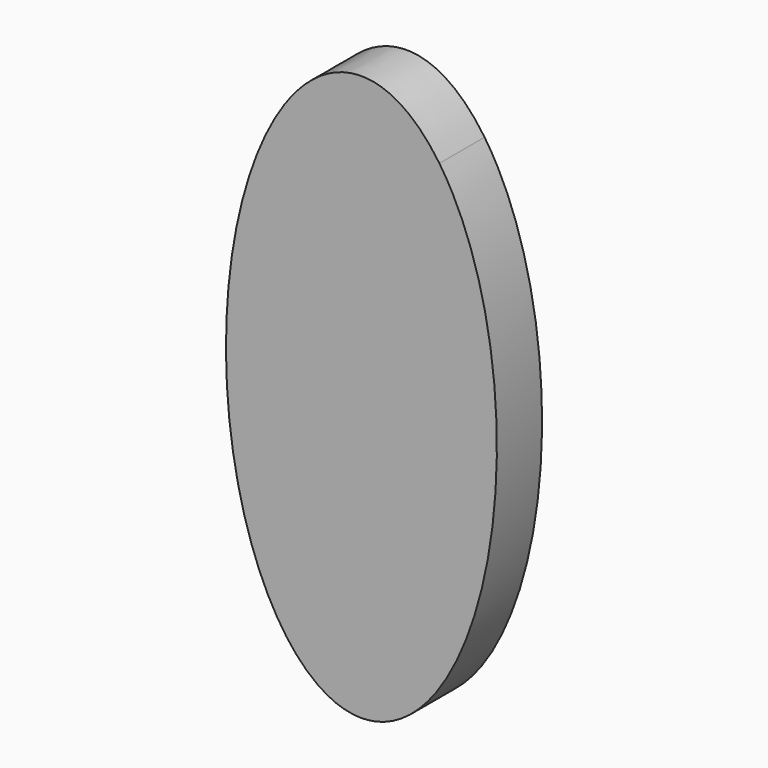
from build123d import *

# Parameters (mm, degrees)
F1_DEPTH = 6.35


with BuildPart() as f1:
    # F0 (on Front) → F1 (new body)
    with BuildSketch(Plane.XZ):
        with BuildLine():
            add(Edge.make_bspline(
                [(-8.682643097, 26.0743982187), (-48.3611295916, -31.4446766819), (-0.0460673293, -31.7498545102), (48.268994933, -32.0550323386), (8.7581483517, 25.9642349982)],
                knots=[0.6072139207, 0.6072139207, 0.6072139207, 3.1385653252, 3.1385653252, 5.6699167296, 5.6699167296, 5.6699167296], degree=2, weights=[1, 0.3004082304, 1, 0.3004082304, 1]))
            Line((8.7581483517, 25.9642349982), (-8.682643097, 25.9642349982))
            Line((-8.682643097, 25.9642349982), (-8.682643097, 26.0743982187))
        make_face()
        with BuildLine():
            Line((-8.682643097, 25.9642349982), (8.7581483517, 25.9642349982))
            add(Edge.make_bspline(
                [(8.7581483517, 25.9642349982), (4.8180697565, 31.75), (0, 31.75)],
                knots=[5.6699167296, 5.6699167296, 5.6699167296, 6.2831853072, 6.2831853072, 6.2831853072], degree=2, weights=[1, 0.9533549132, 1]))
            add(Edge.make_bspline(
                [(0, 31.75), (-4.7674325513, 31.75), (-8.682643097, 26.0743982187)],
                knots=[0, 0, 0, 0.6072139207, 0.6072139207, 0.6072139207], degree=2, weights=[1, 0.9542643472, 1]))
            Line((-8.682643097, 26.0743982187), (-8.682643097, 25.9642349982))
        make_face()
    extrude(amount=F1_DEPTH)


solid = f1.part
